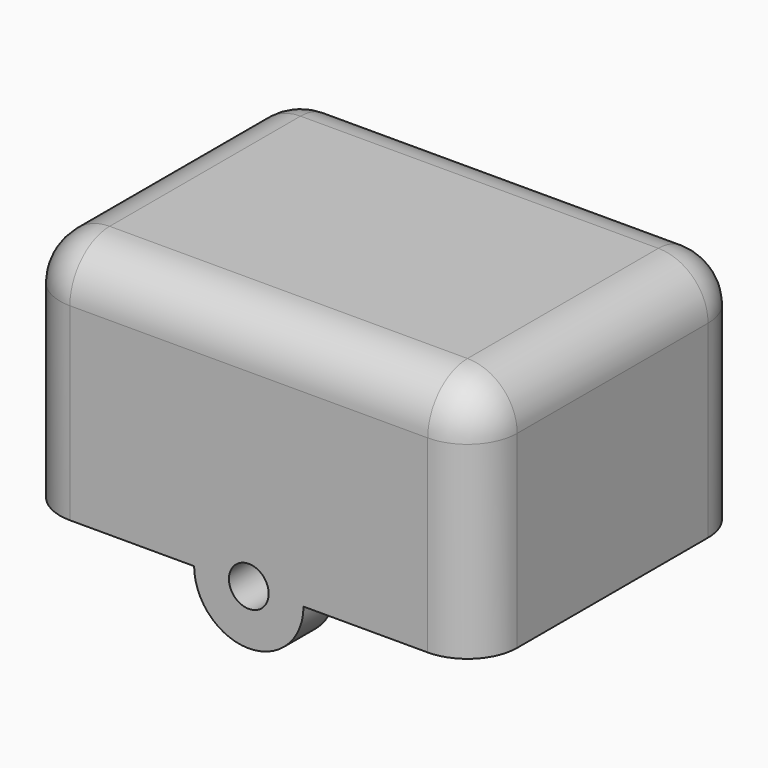
from build123d import *

# Parameters (mm, degrees)
F0_R     = 2
F1_DEPTH = 4
F2_DEPTH = 34
F5_R     = 5


with BuildPart() as f1:
    # F0 (on Front) → F1 (new body)
    with BuildSketch(Plane.XZ):
        Polygon((0, 0), (0, 18), (40, 18), (40, 0), (40, -3), (43, -3), (43, 21), (-3, 21), (-3, -3), (0, -3), align=None)
        with BuildLine():
            Line((40, 18), (0, 18))
            Line((0, 18), (0, 0))
            Line((0, 0), (0, -3))
            Line((0, -3), (14.5, -3))
            ThreePointArc((14.5, -3), (20, -8.5), (25.5, -3))
            Line((25.5, -3), (40, -3))
            Line((40, -3), (40, 0))
            Line((40, 0), (40, 18))
        make_face()
        with Locations((20, -3)):
            Circle(F0_R, mode=Mode.SUBTRACT)
    extrude(amount=F1_DEPTH)

    # F0 (on Front) → F2 (join)
    with BuildSketch(Plane.XZ):
        Polygon((0, 0), (0, 18), (40, 18), (40, 0), (40, -3), (43, -3), (43, 21), (-3, 21), (-3, -3), (0, -3), align=None)
    extrude(amount=F2_DEPTH)

    # F4: F1 across plane


with BuildPart() as f1_1:
    add(f1.part)
    add(f1.part.mirror(Plane.XZ.offset(17)))

    # F5
    f5_edges = [f1_1.edges().sort_by_distance(p)[0] for p in [
        (20, 0, 21),
        (-3, -17, 21),
        (20, -34, 21),
        (43, -17, 21),
        (43, 0, 9),
        (-3, 0, 9),
        (-3, -34, 9),
        (43, -34, 9),
    ]]
    fillet(f5_edges, radius=F5_R)


solid = f1_1.part
